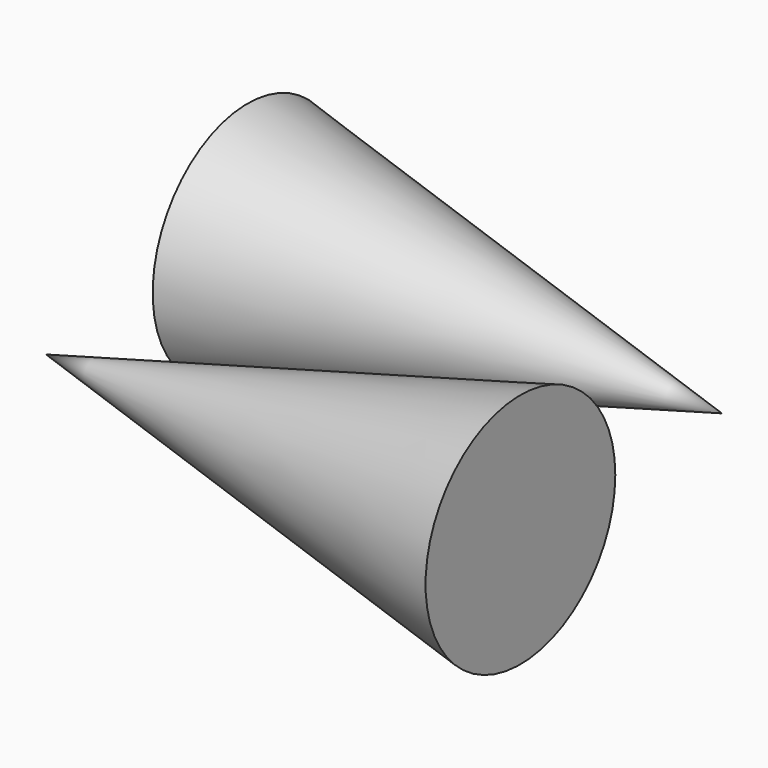
from build123d import *


with BuildPart() as f1:
    # F0 (on Top) → F1 (revolve)
    with BuildSketch(Plane.XY):
        Polygon((0, 0), (-50.8, 12.7), (-50.8, 0), align=None)
    revolve(axis=Axis((-25.4, 0, 0), (1, 0, 0)))


with BuildPart() as f2:
    # F0 (on Top) → F2 (revolve)
    with BuildSketch(Plane.XY):
        Polygon((0, -26.974265), (0, -14.274265), (-50.8, -26.974265), align=None)
    revolve(axis=Axis((-25.4, -26.974265, 0), (-1, 0, 0)))


solid = Compound([f1.part, f2.part])
